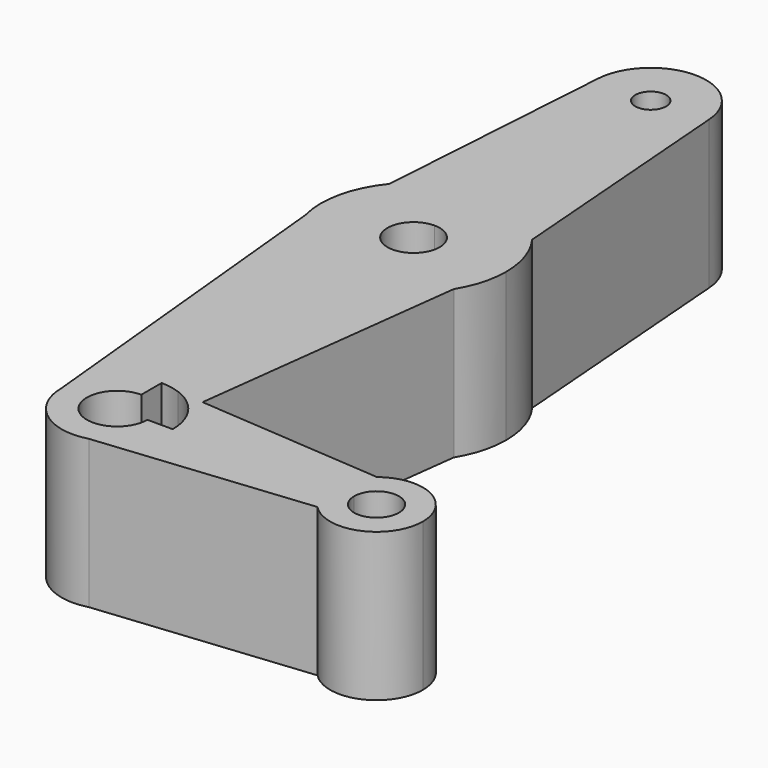
from build123d import *

# Parameters (mm, degrees)
F1_DEPTH = 25.4


with BuildPart() as f1:
    # F0 (on Top) → F1 (new body)
    with BuildSketch(Plane.XY):
        with BuildLine():
            ThreePointArc((-81.9154499018, 58.7632881275), (-79.365611409, 51.6247388831), (-72.4112975543, 48.6084364341))
            ThreePointArc((-72.4112975543, 48.6084364341), (-65.6761054635, 51.3982443433), (-62.8862975543, 58.1334364341))
            ThreePointArc((-62.8862975543, 58.1334364341), (-62.8918885895, 58.4597460448), (-62.9086551316, 58.7856725777))
            ThreePointArc((-62.9086551316, 58.7856725777), (-72.4225152131, 67.6584298285), (-81.9154499018, 58.7632881275))
        make_face()
        with BuildLine():
            ThreePointArc((-69.7650360776, 58.1334364341), (-70.5401081193, 56.2622469991), (-72.4112975543, 55.4871749574))
            ThreePointArc((-72.4112975543, 55.4871749574), (-74.2824869893, 60.0046258691), (-69.7650360776, 58.1334364341))
        make_face(mode=Mode.SUBTRACT)
        with BuildLine():
            ThreePointArc((-62.8862975543, 58.1334364341), (-65.6761054635, 51.3982443433), (-72.4112975543, 48.6084364341))
            Line((-72.4112975543, 48.6084364341), (-72.4112975543, 23.2084364341))
            ThreePointArc((-72.4112975543, 23.2084364341), (-65.2610443066, 21.5069858658), (-59.6434905803, 16.7673502601))
            Line((-59.6434905803, 16.7673502601), (-62.9086551316, 58.7856725777))
            ThreePointArc((-62.9086551316, 58.7856725777), (-62.8918885895, 58.4597460448), (-62.8862975543, 58.1334364341))
        make_face()
        with BuildLine():
            Line((-72.4112975543, 23.2084364341), (-72.4112975543, 48.6084364341))
            ThreePointArc((-72.4112975543, 48.6084364341), (-79.365611409, 51.6247388831), (-81.9154499018, 58.7632881275))
            Line((-81.9154499018, 58.7632881275), (-84.6540321608, 17.4394284366))
            ThreePointArc((-84.6540321608, 17.4394284366), (-79.1782393288, 21.6939421362), (-72.4112975543, 23.2084364341))
        make_face()
        with BuildLine():
            ThreePointArc((-59.6434905803, 16.7673502601), (-65.2610443066, 21.5069858658), (-72.4112975543, 23.2084364341))
            Line((-72.4112975543, 23.2084364341), (-72.4112975543, 11.8068196371))
            ThreePointArc((-72.4112975543, 11.8068196371), (-69.2481379566, 10.4965960318), (-67.9379143512, 7.3334364341))
            ThreePointArc((-67.9379143512, 7.3334364341), (-69.2481379566, 4.1702768364), (-72.4112975543, 2.8600532311))
            Line((-72.4112975543, 2.8600532311), (-72.4112975543, -8.5415635659))
            ThreePointArc((-72.4112975543, -8.5415635659), (-64.659994032, -6.5205492273), (-58.8822962498, -0.9720887572))
            ThreePointArc((-58.8822962498, -0.9720887572), (-57.134051063, 3.0181885101), (-56.5362975543, 7.3334364341))
            ThreePointArc((-56.5362975543, 7.3334364341), (-57.333092079, 12.2996567921), (-59.6434905803, 16.7673502601))
        make_face()
        with BuildLine():
            Line((-72.4112975543, 11.8068196371), (-72.4112975543, 23.2084364341))
            ThreePointArc((-72.4112975543, 23.2084364341), (-79.1782393288, 21.6939421362), (-84.6540321608, 17.4394284366))
            ThreePointArc((-84.6540321608, 17.4394284366), (-87.9052178237, 10.7909007773), (-87.788951639, 3.3909270999))
            ThreePointArc((-87.788951639, 3.3909270999), (-82.1434167819, -5.2085522575), (-72.4112975543, -8.5415635659))
            Line((-72.4112975543, -8.5415635659), (-72.4112975543, 2.8600532311))
            ThreePointArc((-72.4112975543, 2.8600532311), (-76.8846807573, 7.3334364341), (-72.4112975543, 11.8068196371))
        make_face()
        with BuildLine():
            ThreePointArc((-72.4112975543, -8.5415635659), (-82.1434167819, -5.2085522575), (-87.788951639, 3.3909270999))
            Line((-87.788951639, 3.3909270999), (-81.9362810967, -56.1488571643))
            ThreePointArc((-81.9362810967, -56.1488571643), (-79.1402265748, -49.4251142234), (-72.4112975543, -46.6415635659))
            Line((-72.4112975543, -46.6415635659), (-72.4112975543, -8.5415635659))
        make_face()
        with BuildLine():
            ThreePointArc((-58.8822962498, -0.9720887572), (-64.659994032, -6.5205492273), (-72.4112975543, -8.5415635659))
            Line((-72.4112975543, -8.5415635659), (-72.4112975543, -46.6415635659))
            ThreePointArc((-72.4112975543, -46.6415635659), (-70.7461297446, -46.7882459574), (-69.1322481915, -47.2237753946))
            Line((-69.1322481915, -47.2237753946), (-64.6560843657, -47.5578536564))
            Line((-64.6560843657, -47.5578536564), (-58.8822962498, -0.9720887572))
        make_face()
        with BuildLine():
            ThreePointArc((-72.4112975543, -46.6415635659), (-79.1402265748, -49.4251142234), (-81.9362810967, -56.1488571643))
            ThreePointArc((-81.9362810967, -56.1488571643), (-78.1986271898, -63.7317761003), (-69.9019019663, -65.3550650097))
            ThreePointArc((-69.9019019663, -65.3550650097), (-64.8407091367, -61.9468590611), (-62.8862975543, -56.1665635659))
            Line((-62.8862975543, -56.1665635659), (-67.2326719659, -56.1665635659))
            ThreePointArc((-67.2326719659, -56.1665635659), (-76.073138825, -59.8284048367), (-72.4112975543, -50.9879379775))
            Line((-72.4112975543, -50.9879379775), (-72.4112975543, -46.6415635659))
        make_face()
        with BuildLine():
            Line((-32.8715252909, -49.9300926228), (-64.6560843657, -47.5578536564))
            Line((-64.6560843657, -47.5578536564), (-64.9839603911, -50.2033188397))
            ThreePointArc((-64.9839603911, -50.2033188397), (-63.4260036949, -53.0058485739), (-62.8862975543, -56.1665635659))
            Line((-62.8862975543, -56.1665635659), (-35.8987975543, -56.1665635659))
            ThreePointArc((-35.8987975543, -56.1665635659), (-35.1019851581, -52.7003715927), (-32.8715252909, -49.9300926228))
        make_face()
        with BuildLine():
            Line((-64.9839603911, -50.2033188397), (-64.6560843657, -47.5578536564))
            Line((-64.6560843657, -47.5578536564), (-69.1322481915, -47.2237753946))
            ThreePointArc((-69.1322481915, -47.2237753946), (-66.8546710691, -48.4303159546), (-64.9839603911, -50.2033188397))
        make_face()
        with BuildLine():
            ThreePointArc((-62.8862975543, -56.1665635659), (-64.8407091367, -61.9468590611), (-69.9019019663, -65.3550650097))
            Line((-69.9019019663, -65.3550650097), (-33.6754152653, -61.6758979208))
            ThreePointArc((-33.6754152653, -61.6758979208), (-35.3219943821, -59.1370935622), (-35.8987975543, -56.1665635659))
            Line((-35.8987975543, -56.1665635659), (-62.8862975543, -56.1665635659))
        make_face()
        with BuildLine():
            ThreePointArc((-20.0237975543, -56.1665635659), (-24.4951055811, -49.0258759621), (-32.8715252909, -49.9300926228))
            ThreePointArc((-32.8715252909, -49.9300926228), (-35.1019851581, -52.7003715927), (-35.8987975543, -56.1665635659))
            ThreePointArc((-35.8987975543, -56.1665635659), (-35.3219943821, -59.1370935622), (-33.6754152653, -61.6758979208))
            ThreePointArc((-33.6754152653, -61.6758979208), (-24.9907675579, -63.5272603937), (-20.0237975543, -56.1665635659))
        make_face()
        with BuildLine():
            ThreePointArc((-24.1271322151, -56.1665635659), (-27.9612975543, -60.000728905), (-31.7954628934, -56.1665635659))
            ThreePointArc((-31.7954628934, -56.1665635659), (-27.9612975543, -52.3323982268), (-24.1271322151, -56.1665635659))
        make_face(mode=Mode.SUBTRACT)
    extrude(amount=F1_DEPTH)


solid = f1.part
